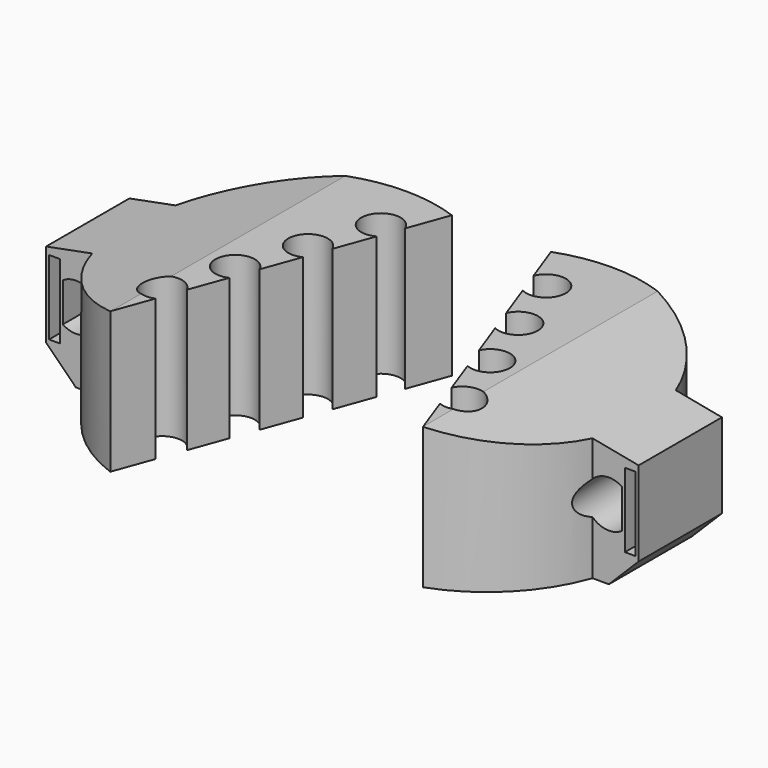
from build123d import *

# Parameters (mm, degrees)
F1_DEPTH      = 19
F3_DEPTH      = 26.7345450365
F3_DEPTH_BACK = 14.001
F4_SIZE       = 4


with BuildPart() as f1:
    # F0 (on Top) → F1 (new body)
    with BuildSketch(Plane.XY):
        with BuildLine():
            ThreePointArc((-6.6635133854, 19.7335450365), (-10.1993246642, 20.6809628133), (-13.8459363952, 21))
            ThreePointArc((-13.8459363952, 21), (-25.9702920482, 17.1464281995), (-33.6449262685, 7))
            Line((-33.6449262685, 7), (-26.1928457767, 7))
            Line((-26.1928457767, 7), (-26.1928457767, -7))
            Line((-26.1928457767, -7), (-33.6449262685, -7))
            ThreePointArc((-33.6449262685, -7), (-28.7635418529, -14.7805631628), (-21.0283594051, -19.7335450365))
            Line((-21.0283594051, -19.7335450365), (-19.1216743535, -14.4949709112))
            ThreePointArc((-19.1216743535, -14.4949709112), (-22.6637665335, -11.1563362522), (-17.8043335099, -10.8756066898))
            Line((-17.8043335099, -10.8756066898), (-16.0235809599, -5.9830292689))
            ThreePointArc((-16.0235809599, -5.9830292689), (-19.641922738, -2.6788094858), (-14.7462005893, -2.4734555447))
            Line((-14.7462005893, -2.4734555447), (-12.9241629831, 2.5325516357))
            ThreePointArc((-12.9241629831, 2.5325516357), (-16.6200789425, 5.7987172806), (-11.6893922518, 5.9250563382))
            Line((-11.6893922518, 5.9250563382), (-9.823278062, 11.0521629366))
            ThreePointArc((-9.823278062, 11.0521629366), (-13.598235147, 14.2762440471), (-8.6340508586, 14.3195378246))
            Line((-8.6340508586, 14.3195378246), (-6.6635133854, 19.7335450365))
        make_face()
        with BuildLine():
            Line((-26.1928457767, 7), (-33.6449262685, 7))
            ThreePointArc((-33.6449262685, 7), (-34.8459363952, 0), (-33.6449262685, -7))
            Line((-33.6449262685, -7), (-26.1928457767, -7))
            Line((-26.1928457767, -7), (-26.1928457767, 7))
        make_face()
        with BuildLine():
            ThreePointArc((-33.6449262685, -7), (-34.8459363952, 0), (-33.6449262685, 7))
            Line((-33.6449262685, 7), (-39.8459363952, 7))
            Line((-39.8459363952, 7), (-39.8459363952, -7))
            Line((-39.8459363952, -7), (-33.6449262685, -7))
        make_face()
    extrude(amount=F1_DEPTH)

    # F2 (on face) → F3 (cut, two sides)
    with BuildSketch(Plane(origin=(0, 7, 0), x_dir=(-1, 0, 0), z_dir=(0, 1, 0))) as f3_sk:
        with BuildLine():
            Line((37.5959363952, 6.8808398293), (37.5959363952, 12.1191601707))
            ThreePointArc((37.5959363952, 12.1191601707), (32.6959363952, 9.5), (37.5959363952, 6.8808398293))
        make_face()
        Polygon((37.9959363952, 4.5), (39.4459363952, 4.5), (39.4459363952, 14.5), (37.9959363952, 14.5), (37.9959363952, 13.8318650424), (37.9959363952, 11.8021728866), (37.9959363952, 7.1978271134), (37.9959363952, 5.8489135567), align=None)
        Polygon((18.1250255555, 19.5520892739), (40.7956875861, 15.1955494657), (40.7956875861, 19.5520892739), align=None)
    extrude(amount=-F3_DEPTH, mode=Mode.SUBTRACT)
    extrude(f3_sk.sketch, amount=F3_DEPTH_BACK, mode=Mode.SUBTRACT)

    # F4
    f4_edges = [f1.edges().sort_by_distance(p)[0] for p in [
        (-39.845936, 0, 0),
    ]]
    chamfer(f4_edges, length=F4_SIZE)


with BuildPart() as f5_1:
    # F5: instance of F1
    add(f1.part.mirror(Plane.YZ))


solid = Compound([f1.part, f5_1.part])
